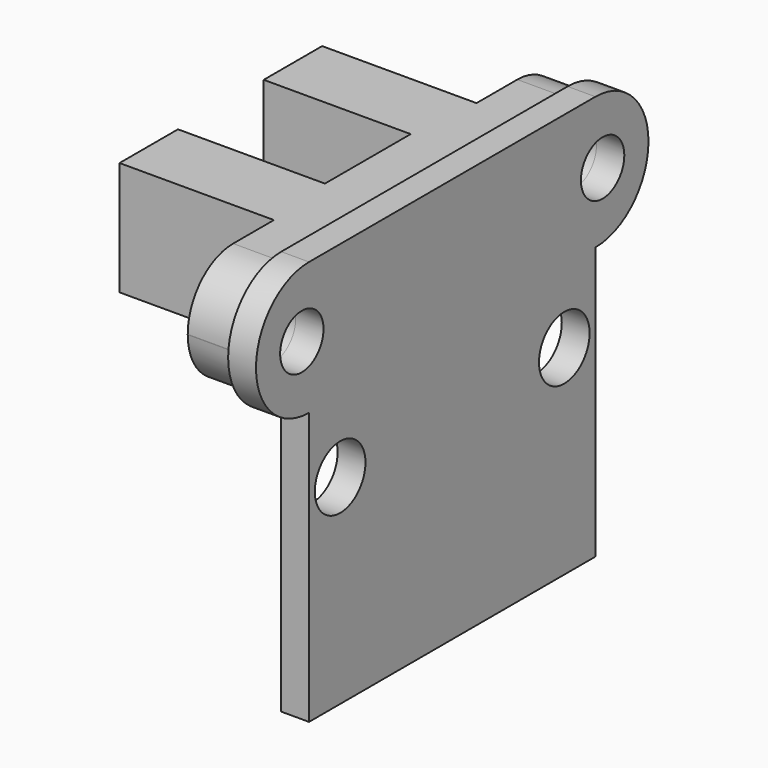
from build123d import *

# Parameters (mm, degrees)
F1_DEPTH = 3.15
F2_R     = 3.14
F5_DEPTH = 1.54
F4_R     = 1.5
F4_R_2   = 1.75
F6_DEPTH = 12.5


with BuildPart() as f1:
    # F0 (on Top) → F1 (new body, symmetric)
    with BuildSketch(Plane.XY):
        Polygon((0, 2.965), (0, 0), (0, -2.965), (-8.13, -2.965), (-8.13, -7.005), (0.41, -7.005), (0.41, -12.965), (3.13, -12.965), (3.13, 0), (3.13, 12.965), (0.41, 12.965), (0.41, 7.005), (-8.13, 7.005), (-8.13, 2.965), align=None)
    extrude(amount=F1_DEPTH, both=True)

    # F2
    f2_edges = [f1.edges().sort_by_distance(p)[0] for p in [
        (1.77, 12.965, 3.15),
        (1.77, 12.965, -3.15),
        (1.77, -12.965, 3.15),
        (1.77, -12.965, -3.15),
    ]]
    fillet(f2_edges, radius=F2_R)

    # F3 (on face) → F5 (join)
    with BuildSketch(Plane.YZ.offset(3.13)):
        with BuildLine():
            Line((-9.9, -3.67), (-9.9, -18.73))
            Line((-9.9, -18.73), (9.9, -18.73))
            Line((9.9, -18.73), (9.9, -3.67))
            ThreePointArc((9.9, -3.67), (13.57, 0), (9.9, 3.67))
            Line((9.9, 3.67), (-9.9, 3.67))
            ThreePointArc((-9.9, 3.67), (-13.57, 0), (-9.9, -3.67))
        make_face()
    extrude(amount=F5_DEPTH)

    # F4 (on face) → F6 (cut, symmetric)
    with BuildSketch(Plane.YZ.offset(3.13)):
        with Locations((-10.4, 0)):
            Circle(F4_R)
        with Locations((10.4, 0)):
            Circle(F4_R)
        with Locations((-7.75, -7.68)):
            Circle(F4_R_2)
        with Locations((7.75, -7.68)):
            Circle(F4_R_2)
    extrude(amount=F6_DEPTH, both=True, mode=Mode.SUBTRACT)


solid = f1.part
